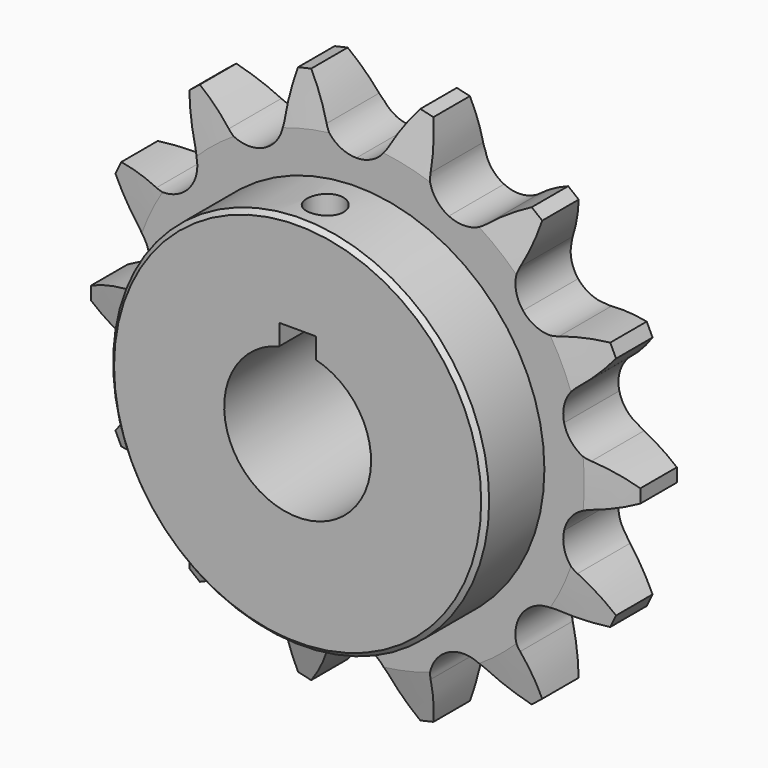
from build123d import *

# Parameters (mm, degrees)
F1_DEPTH  = 5.969
F5_R      = 32.512
F6_DEPTH  = 12.7
F8_DEPTH  = 50.8
F9_SIZE   = 0.762
F10_R     = 3.175
F11_DEPTH = 76.2


with BuildPart() as f1:
    # F0 (on Front) → F1 (new body, symmetric)
    with BuildSketch(Plane.XZ):
        with BuildLine():
            Line((-15.985448, 33.194126), (0, 0))
            Line((0, 0), (0, 36.8427))
            ThreePointArc((0, 36.8427), (-3.175699, 37.757603), (-5.377883, 40.221848))
            ThreePointArc((-5.377883, 40.221848), (-7.213521, 43.509582), (-9.432074, 46.552078))
            ThreePointArc((-9.432074, 46.552078), (-10.569299, 46.307126), (-11.700185, 46.034397))
            ThreePointArc((-11.700185, 46.034397), (-12.378943, 42.330608), (-12.6063, 38.572009))
            ThreePointArc((-12.6063, 38.572009), (-13.521204, 35.396309), (-15.985448, 33.194126))
        make_face()
        with BuildLine():
            Line((0, 36.8427), (0, 0))
            Line((0, 0), (15.985448, 33.194126))
            ThreePointArc((15.985448, 33.194126), (13.521204, 35.396309), (12.6063, 38.572009))
            ThreePointArc((12.6063, 38.572009), (12.378943, 42.330608), (11.700185, 46.034397))
            ThreePointArc((11.700185, 46.034397), (10.569299, 46.307126), (9.432074, 46.552078))
            ThreePointArc((9.432074, 46.552078), (7.213521, 43.509582), (5.377883, 40.221848))
            ThreePointArc((5.377883, 40.221848), (3.175699, 37.757603), (0, 36.8427))
        make_face()
        with BuildLine():
            Line((-28.804783, 22.971048), (0, 0))
            Line((0, 0), (-15.985448, 33.194126))
            ThreePointArc((-15.985448, 33.194126), (-19.243616, 32.640541), (-22.296911, 33.905257))
            ThreePointArc((-22.296911, 33.905257), (-25.377258, 36.07095), (-28.696195, 37.84955))
            ThreePointArc((-28.696195, 37.84955), (-29.614519, 37.135432), (-30.515078, 36.399038))
            ThreePointArc((-30.515078, 36.399038), (-29.519605, 32.767538), (-28.093652, 29.28251))
            ThreePointArc((-28.093652, 29.28251), (-27.540067, 26.024342), (-28.804783, 22.971048))
        make_face()
        with BuildLine():
            Line((-35.918977, 8.198272), (0, 0))
            Line((0, 0), (-28.804783, 22.971048))
            ThreePointArc((-28.804783, 22.971048), (-31.500099, 21.058619), (-34.799762, 20.873314))
            ThreePointArc((-34.799762, 20.873314), (-38.514718, 21.488023), (-42.276682, 21.650454))
            ThreePointArc((-42.276682, 21.650454), (-42.794219, 20.60861), (-43.286086, 19.554404))
            ThreePointArc((-43.286086, 19.554404), (-40.813547, 16.714455), (-38.016711, 14.193252))
            ThreePointArc((-38.016711, 14.193252), (-36.104282, 11.497935), (-35.918977, 8.198272))
        make_face()
        with BuildLine():
            Line((-35.918977, -8.198272), (0, 0))
            Line((0, 0), (-35.918977, 8.198272))
            ThreePointArc((-35.918977, 8.198272), (-37.517601, 5.305779), (-40.410094, 3.707155))
            ThreePointArc((-40.410094, 3.707155), (-44.023865, 2.64913), (-47.483754, 1.16322))
            ThreePointArc((-47.483754, 1.16322), (-47.498, 0), (-47.483754, -1.16322))
            ThreePointArc((-47.483754, -1.16322), (-44.023865, -2.64913), (-40.410094, -3.707155))
            ThreePointArc((-40.410094, -3.707155), (-37.517601, -5.305779), (-35.918977, -8.198272))
        make_face()
        with BuildLine():
            Line((-28.804783, -22.971048), (0, 0))
            Line((0, 0), (-35.918977, -8.198272))
            ThreePointArc((-35.918977, -8.198272), (-36.104282, -11.497935), (-38.016711, -14.193252))
            ThreePointArc((-38.016711, -14.193252), (-40.813547, -16.714455), (-43.286086, -19.554404))
            ThreePointArc((-43.286086, -19.554404), (-42.794219, -20.60861), (-42.276682, -21.650454))
            ThreePointArc((-42.276682, -21.650454), (-38.514718, -21.488023), (-34.799762, -20.873314))
            ThreePointArc((-34.799762, -20.873314), (-31.500099, -21.058619), (-28.804783, -22.971048))
        make_face()
        with BuildLine():
            Line((-15.985448, -33.194126), (0, 0))
            Line((0, 0), (-28.804783, -22.971048))
            ThreePointArc((-28.804783, -22.971048), (-27.540067, -26.024342), (-28.093652, -29.28251))
            ThreePointArc((-28.093652, -29.28251), (-29.519605, -32.767538), (-30.515078, -36.399038))
            ThreePointArc((-30.515078, -36.399038), (-29.614519, -37.135432), (-28.696195, -37.84955))
            ThreePointArc((-28.696195, -37.84955), (-25.377258, -36.07095), (-22.296911, -33.905257))
            ThreePointArc((-22.296911, -33.905257), (-19.243616, -32.640541), (-15.985448, -33.194126))
        make_face()
        with BuildLine():
            Line((0, -36.8427), (0, 0))
            Line((0, 0), (-15.985448, -33.194126))
            ThreePointArc((-15.985448, -33.194126), (-13.521204, -35.396309), (-12.6063, -38.572009))
            ThreePointArc((-12.6063, -38.572009), (-12.378943, -42.330608), (-11.700185, -46.034397))
            ThreePointArc((-11.700185, -46.034397), (-10.569299, -46.307126), (-9.432074, -46.552078))
            ThreePointArc((-9.432074, -46.552078), (-7.213521, -43.509582), (-5.377883, -40.221848))
            ThreePointArc((-5.377883, -40.221848), (-3.175699, -37.757603), (0, -36.8427))
        make_face()
        with BuildLine():
            Line((15.985448, -33.194126), (0, 0))
            Line((0, 0), (0, -36.8427))
            ThreePointArc((0, -36.8427), (3.175699, -37.757603), (5.377883, -40.221848))
            ThreePointArc((5.377883, -40.221848), (7.213521, -43.509582), (9.432074, -46.552078))
            ThreePointArc((9.432074, -46.552078), (10.569299, -46.307126), (11.700185, -46.034397))
            ThreePointArc((11.700185, -46.034397), (12.378943, -42.330608), (12.6063, -38.572009))
            ThreePointArc((12.6063, -38.572009), (13.521204, -35.396309), (15.985448, -33.194126))
        make_face()
        with BuildLine():
            Line((28.804783, -22.971048), (0, 0))
            Line((0, 0), (15.985448, -33.194126))
            ThreePointArc((15.985448, -33.194126), (19.243616, -32.640541), (22.296911, -33.905257))
            ThreePointArc((22.296911, -33.905257), (25.377258, -36.07095), (28.696195, -37.84955))
            ThreePointArc((28.696195, -37.84955), (29.614519, -37.135432), (30.515078, -36.399038))
            ThreePointArc((30.515078, -36.399038), (29.519605, -32.767538), (28.093652, -29.28251))
            ThreePointArc((28.093652, -29.28251), (27.540067, -26.024342), (28.804783, -22.971048))
        make_face()
        with BuildLine():
            Line((35.918977, -8.198272), (0, 0))
            Line((0, 0), (28.804783, -22.971048))
            ThreePointArc((28.804783, -22.971048), (31.500099, -21.058619), (34.799762, -20.873314))
            ThreePointArc((34.799762, -20.873314), (38.514718, -21.488023), (42.276682, -21.650454))
            ThreePointArc((42.276682, -21.650454), (42.794219, -20.60861), (43.286086, -19.554404))
            ThreePointArc((43.286086, -19.554404), (40.813547, -16.714455), (38.016711, -14.193252))
            ThreePointArc((38.016711, -14.193252), (36.104282, -11.497935), (35.918977, -8.198272))
        make_face()
        with BuildLine():
            Line((35.918977, 8.198272), (0, 0))
            Line((0, 0), (35.918977, -8.198272))
            ThreePointArc((35.918977, -8.198272), (37.517601, -5.305779), (40.410094, -3.707155))
            ThreePointArc((40.410094, -3.707155), (44.023865, -2.64913), (47.483754, -1.16322))
            ThreePointArc((47.483754, -1.16322), (47.498, 0), (47.483754, 1.16322))
            ThreePointArc((47.483754, 1.16322), (44.023865, 2.64913), (40.410094, 3.707155))
            ThreePointArc((40.410094, 3.707155), (37.517601, 5.305779), (35.918977, 8.198272))
        make_face()
        with BuildLine():
            Line((28.804783, 22.971048), (0, 0))
            Line((0, 0), (35.918977, 8.198272))
            ThreePointArc((35.918977, 8.198272), (36.104282, 11.497935), (38.016711, 14.193252))
            ThreePointArc((38.016711, 14.193252), (40.813547, 16.714455), (43.286086, 19.554404))
            ThreePointArc((43.286086, 19.554404), (42.794219, 20.60861), (42.276682, 21.650454))
            ThreePointArc((42.276682, 21.650454), (38.514718, 21.488023), (34.799762, 20.873314))
            ThreePointArc((34.799762, 20.873314), (31.500099, 21.058619), (28.804783, 22.971048))
        make_face()
        with BuildLine():
            Line((15.985448, 33.194126), (0, 0))
            Line((0, 0), (28.804783, 22.971048))
            ThreePointArc((28.804783, 22.971048), (27.540067, 26.024342), (28.093652, 29.28251))
            ThreePointArc((28.093652, 29.28251), (29.519605, 32.767538), (30.515078, 36.399038))
            ThreePointArc((30.515078, 36.399038), (29.614519, 37.135432), (28.696195, 37.84955))
            ThreePointArc((28.696195, 37.84955), (25.377258, 36.07095), (22.296911, 33.905257))
            ThreePointArc((22.296911, 33.905257), (19.243616, 32.640541), (15.985448, 33.194126))
        make_face()
    extrude(amount=F1_DEPTH, both=True)

    # F2 (on Right) → F4 (revolve, cut)
    with BuildSketch(Plane.YZ):
        Polygon((8.095868, 30.943047), (8.095868, 50.205432), (3.26276, 50.205432), align=None)
        Polygon((-8.095868, 30.943047), (-3.26276, 50.205432), (-8.095868, 50.205432), align=None)
    revolve(axis=Axis((0, -29.734179, 0), (0, -1, 0)), mode=Mode.SUBTRACT)

    # F5 (on face) → F6 (join)
    with BuildSketch(Plane.XZ.offset(5.969)):
        Circle(F5_R)
    extrude(amount=F6_DEPTH)

    # F7 (on Front) → F8 (cut, symmetric)
    with BuildSketch(Plane.XZ):
        with BuildLine():
            Line((-3.175, 15.875), (-3.175, 12.296722))
            ThreePointArc((-3.175, 12.296722), (0, -12.7), (3.175, 12.296722))
            Line((3.175, 12.296722), (3.175, 15.875))
            Line((3.175, 15.875), (-3.175, 15.875))
        make_face()
    extrude(amount=F8_DEPTH, both=True, mode=Mode.SUBTRACT)

    # F9
    f9_edges = [f1.edges().sort_by_distance(p)[0] for p in [
        (-32.512, -18.669, 0),
    ]]
    chamfer(f9_edges, length=F9_SIZE)

    # F10 (on Top) → F11 (cut)
    with BuildSketch(Plane.XY):
        with Locations((0, -12.7)):
            Circle(F10_R)
    extrude(amount=F11_DEPTH, mode=Mode.SUBTRACT)


solid = f1.part
